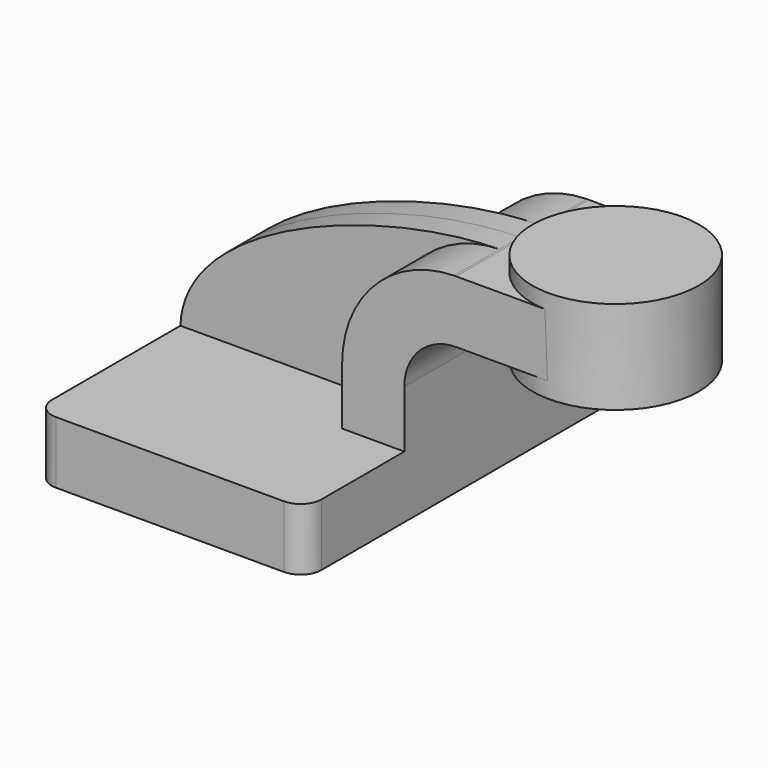
from build123d import *

# Parameters (mm, degrees)
F1_DEPTH = 63.5
F0_W     = 25.347986334
F0_H     = 19.05
F2_DEPTH = 25.4
F3_DEPTH = 7.9375
F5_R     = 6.35


with BuildPart() as f1:
    # F0 (on Front) → F1 (new body, symmetric)
    with BuildSketch(Plane.XZ):
        Polygon((-41.275, 9.525), (-41.275, -9.525), (41.275, -9.525), (41.275, 9.525), (22.225, 9.525), align=None)
    extrude(amount=F1_DEPTH, both=True)

    # F0 (on Front) → F2 (join, symmetric)
    with BuildSketch(Plane.XZ):
        with BuildLine():
            Line((22.225, 9.525), (41.275, 9.525))
            Line((41.275, 9.525), (41.275, 27.0002))
            ThreePointArc((41.275, 27.0002), (45.9246798487, 38.2255201513), (57.15, 42.8752))
            Line((57.15, 42.8752), (60.325, 42.8752))
            Line((60.325, 42.8752), (60.325, 61.9252))
            Line((60.325, 61.9252), (57.15, 61.9252))
            add(Edge.make_bspline(
                [(56.4854564208, 61.9188770487), (56.7077656128, 61.9217360058), (56.9292858392, 61.9238445309), (57.15, 61.9252)],
                knots=[110.8436997421, 110.8436997421, 110.8436997421, 110.8436997421, 111.5045361635, 111.5045361635, 111.5045361635, 111.5045361635], degree=3))
            ThreePointArc((56.4854564208, 61.9188770487), (32.2204511723, 51.4598242868), (22.225, 27.0002))
            Line((22.225, 27.0002), (22.225, 9.525))
        make_face()
        with Locations((72.998993167, 52.4002)):
            Rectangle(F0_W, F0_H)
    extrude(amount=F2_DEPTH, both=True)

    # F0 (on Front) → F3 (join, symmetric)
    with BuildSketch(Plane.XZ):
        with BuildLine():
            add(Edge.make_bspline(
                [(-41.275, 9.525), (-40.2883552222, 39.8470173814), (19.1969951279, 61.4393372205), (56.4854564208, 61.9188770487)],
                knots=[0, 0, 0, 0, 110.8436997421, 110.8436997421, 110.8436997421, 110.8436997421], degree=3))
            Line((-41.275, 9.525), (22.225, 9.525))
            Line((22.225, 9.525), (22.225, 27.0002))
            ThreePointArc((22.225, 27.0002), (32.2204511723, 51.4598242868), (56.4854564208, 61.9188770487))
        make_face()
    extrude(amount=F3_DEPTH, both=True)

    # F0 (on Front) → F4 (revolve)
    with BuildSketch(Plane.XZ):
        Polygon((111.125, 66.675), (85.6816321611, 66.675), (85.725, 38.1), (111.125, 38.1), align=None)
    revolve(axis=Axis((85.7033160806, 0, 52.3875), (-0.0015176829, 0, 0.9999988483)))

    # F5
    f5_edges = [f1.edges().sort_by_distance(p)[0] for p in [
        (41.275, -63.5, 0),
        (-41.275, -63.5, 0),
        (41.275, 63.5, 0),
        (-41.275, 63.5, 0),
    ]]
    fillet(f5_edges, radius=F5_R)


solid = f1.part
